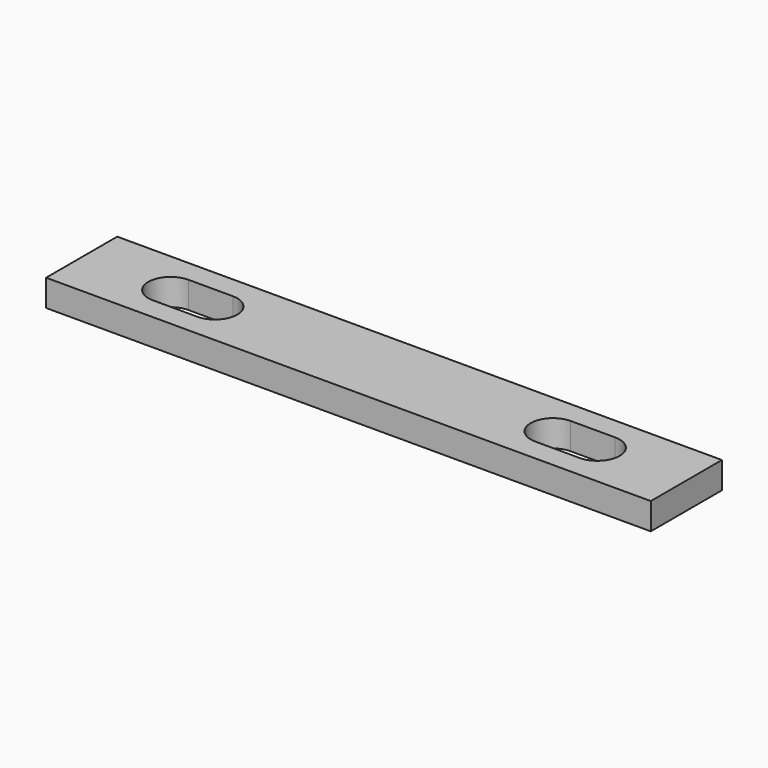
from build123d import *

# Parameters (mm, degrees)
SKETCH_W        = 68
SKETCH_H        = 10
PAD_DEPTH       = 3
POCKET001_DEPTH = 3.001


with BuildPart() as part:
    # Sketch → Pad (new body)
    with BuildSketch(Plane.XY):
        with Locations((34, 5)):
            Rectangle(SKETCH_W, SKETCH_H)
    extrude(amount=PAD_DEPTH)

    # Sketch002 → Pocket001 (cut, through all)
    with BuildSketch(Plane.XY.offset(3)):
        with BuildLine():
            ThreePointArc((10, 7.5), (7.5, 5), (10, 2.5))
            Line((10, 2.5), (15, 2.5))
            ThreePointArc((15, 2.5), (17.5, 5), (15, 7.5))
            Line((10, 7.5), (15, 7.5))
        make_face()
        with BuildLine():
            ThreePointArc((58, 2.5), (60.5, 5), (58, 7.5))
            Line((58, 7.5), (53, 7.5))
            ThreePointArc((53, 7.5), (50.5, 5), (53, 2.5))
            Line((58, 2.5), (53, 2.5))
        make_face()
    extrude(amount=-POCKET001_DEPTH, mode=Mode.SUBTRACT)


solid = part.part
